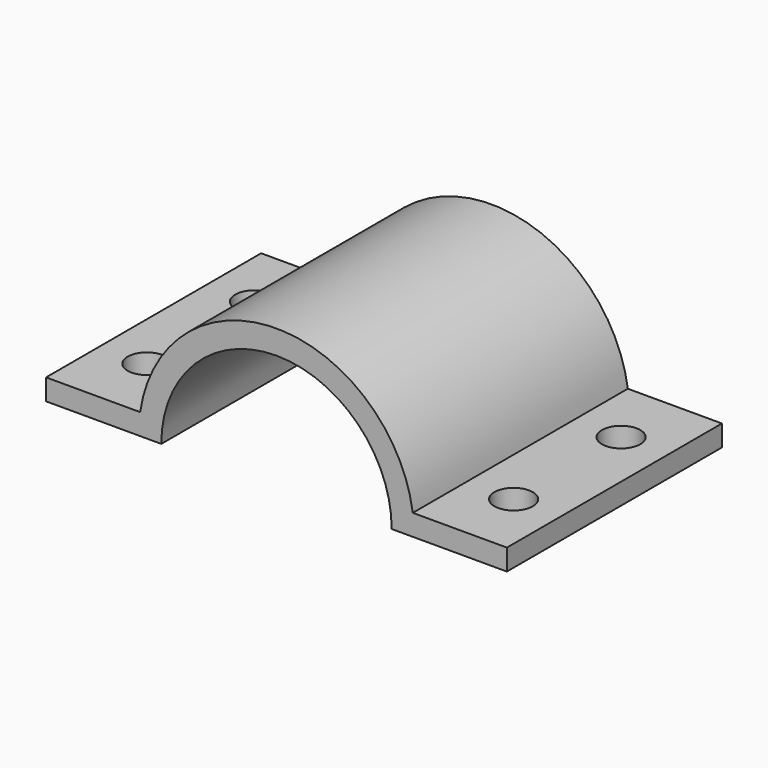
from build123d import *

# Parameters (mm, degrees)
F1_DEPTH = 35
F2_R     = 2.5
F3_DEPTH = 2.751


with BuildPart() as f1:
    # F0 (on Front) → F1 (new body)
    with BuildSketch(Plane.XZ):
        with BuildLine():
            Line((-19.36616, 2.75), (-19.36616, 0))
            Line((-19.36616, 0), (-4.36616, 0))
            ThreePointArc((-4.36616, 0), (10.63384, 15), (25.63384, 0))
            Line((25.63384, 0), (40.63384, 0))
            Line((40.63384, 0), (40.63384, 2.75))
            Line((40.63384, 2.75), (28.38384, 2.75))
            ThreePointArc((28.38384, 2.75), (10.63384, 18.118902), (-7.11616, 2.75))
            Line((-7.11616, 2.75), (-19.36616, 2.75))
        make_face()
    extrude(amount=F1_DEPTH)

    # F2 (on face) → F3 (cut, through all)
    with BuildSketch(Plane.XY.offset(2.75)):
        with Locations((-13.24116, -8.75)):
            Circle(F2_R)
        with Locations((-13.24116, -26.25)):
            Circle(F2_R)
        with Locations((34.50884, -8.75)):
            Circle(F2_R)
        with Locations((34.50884, -26.25)):
            Circle(F2_R)
    extrude(amount=-F3_DEPTH, mode=Mode.SUBTRACT)


solid = f1.part
